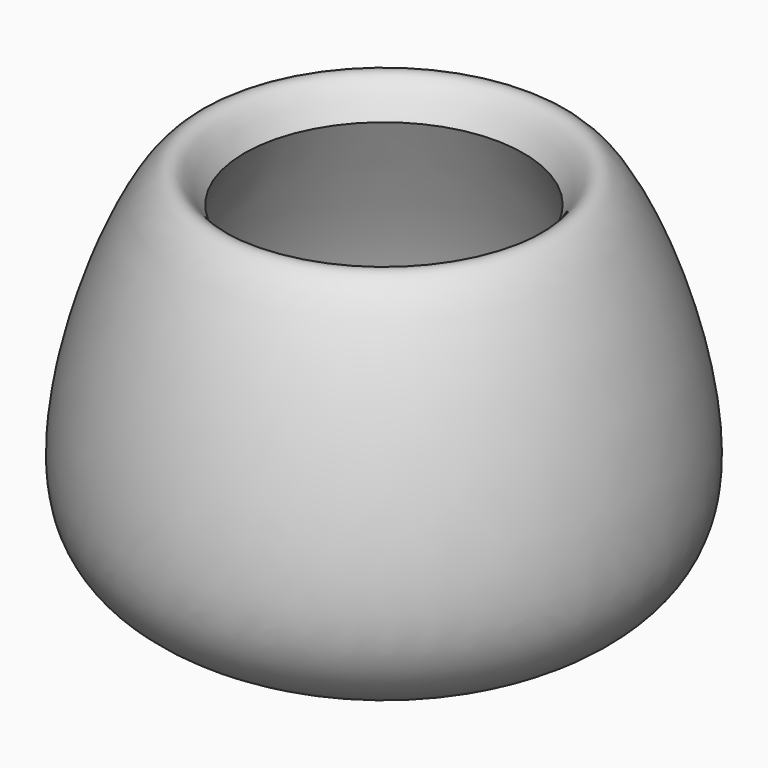
from build123d import *


with BuildPart() as f1:
    # F0 (on Front) → F1 (revolve)
    with BuildSketch(Plane.XZ):
        with BuildLine():
            Line((-17.8969725966, 10.6780258939), (0, 10.3772366419))
            Line((0, 10.3772366419), (0, 17.2953940928))
            Line((0, 17.2953940928), (-18.1977618486, 17.2953940928))
            add(Edge.make_bspline(
                [(-18.1977618486, 17.2953940928), (-22.2980718144, 19.724608072), (-32.8209929988, 25.9588751045), (-23.7401860229, 45.6082736025), (-18.1977618486, 57.6011836529)],
                knots=[0, 0, 0, 0, 0.3896551056, 1, 1, 1, 1], degree=3))
            add(Edge.make_bspline(
                [(-18.1977618486, 57.6011836529), (-19.5054609545, 59.9660632551), (-24.1062222341, 68.2862085053), (-42.4708065574, 20.250583393), (-25.3124411851, 13.56666751), (-17.8969725966, 10.6780258939)],
                knots=[0, 0, 0, 0, 0.1839973803, 0.6473415932, 1, 1, 1, 1], degree=3))
        make_face()
    revolve(axis=Axis((0, 0, 26.0934885591), (0, 0, -1)))


solid = f1.part
